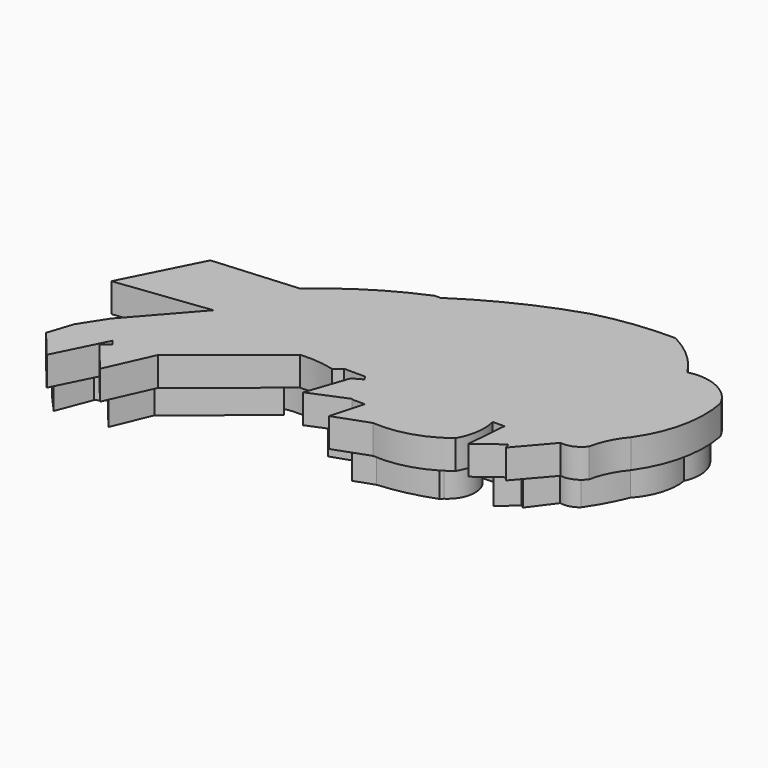
from build123d import *

# Parameters (mm, degrees)
F1_DEPTH = 3.81
F3_DEPTH = 3.81
F5_DEPTH = 3.81


with BuildPart() as f1:
    # F0 (on Top) → F1 (new body)
    with BuildSketch(Plane.XY):
        with BuildLine():
            Line((16.97628, -59.058286), (19.705089, -52.957691))
            Line((19.705089, -52.957691), (31.07564, -43.799512))
            ThreePointArc((31.07564, -43.799512), (33.366016, -43.816918), (35.622127, -44.211995))
            Line((35.622127, -44.211995), (36.541499, -43.411601))
            Line((36.541499, -43.411601), (39.299611, -43.411601))
            Line((39.299611, -43.411601), (39.659975, -43.95369))
            Line((39.659975, -43.95369), (38.401872, -44.655453))
            Line((38.401872, -44.655453), (36.541499, -50.125077))
            Line((36.541499, -50.125077), (41.410863, -48.1015))
            Line((41.410863, -48.1015), (41.462618, -48.226037))
            Line((41.462618, -48.226037), (43.122184, -48.226037))
            Line((43.122184, -48.226037), (41.909318, -52.580997))
            Line((41.909318, -52.580997), (46.375882, -50.965246))
            ThreePointArc((46.375882, -50.965246), (50.990398, -50.455311), (55.107314, -48.309434))
            ThreePointArc((55.107314, -48.309434), (55.96993, -45.777959), (55.834934, -43.106958))
            Line((55.834934, -43.106958), (57.362933, -43.106958))
            Line((57.362933, -43.106958), (56.926362, -48.454959))
            Line((56.926362, -48.454959), (60.218841, -45.999244))
            Line((60.218841, -45.999244), (60.455315, -46.708673))
            Line((60.455315, -46.708673), (64.166173, -42.397529))
            ThreePointArc((64.166173, -42.397529), (65.729722, -42.177688), (66.959918, -41.187923))
            ThreePointArc((66.959918, -41.187923), (67.726373, -38.917492), (69.034263, -36.909573))
            ThreePointArc((69.034263, -36.909573), (71.467629, -31.352581), (71.514241, -25.286343))
            ThreePointArc((71.514241, -25.286343), (68.607951, -22.424523), (64.549089, -22.021808))
            ThreePointArc((64.549089, -22.021808), (62.040176, -19.042247), (58.826987, -16.840467))
            ThreePointArc((58.826987, -16.840467), (53.707685, -17.118566), (48.670236, -18.071821))
            ThreePointArc((48.670236, -18.071821), (41.311862, -21.003722), (34.429371, -24.924567))
            Line((34.429371, -24.924567), (33.67985, -24.924567))
            ThreePointArc((33.67985, -24.924567), (27.48786, -28.135727), (21.901691, -32.312687))
            Line((21.901691, -32.312687), (10.765978, -33.169281))
            Line((10.765978, -33.169281), (5.733491, -43.127179))
            Line((5.733491, -43.127179), (17.939948, -41.628141))
            Line((17.939948, -41.628141), (10.873053, -49.658701))
            Line((10.873053, -49.658701), (8.731569, -52.978002))
            Line((8.731569, -52.978002), (7.653544, -56.265509))
            Line((7.653544, -56.265509), (10.765978, -60.044896))
            Line((10.765978, -60.044896), (14.075343, -53.394235))
            Line((14.075343, -53.394235), (14.600779, -54.032265))
            Line((14.600779, -54.032265), (13.549907, -54.897688))
            Line((13.549907, -54.897688), (16.97628, -59.058286))
        make_face()
    extrude(amount=F1_DEPTH)

    # F2 (on face) → F3 (join)
    with BuildSketch(Plane(origin=(0, 0, 0), x_dir=(1, 0, 0), z_dir=(0, 0, -1))):
        with BuildLine():
            Line((62.362719, 21.262165), (64.074621, 23.344252))
            ThreePointArc((64.074621, 23.344252), (67.036734, 23.376149), (69.694884, 24.683576))
            ThreePointArc((69.694884, 24.683576), (70.644255, 27.084462), (70.225157, 29.631993))
            ThreePointArc((70.225157, 29.631993), (69.955998, 33.029778), (68.25655, 35.984311))
            ThreePointArc((68.25655, 35.984311), (67.0841, 38.480973), (65.636583, 40.828876))
            ThreePointArc((65.636583, 40.828876), (64.574593, 41.408491), (63.365407, 41.449059))
            Line((63.365407, 41.449059), (61.005343, 44.63305))
            Line((61.005343, 44.63305), (60.600822, 44.333207))
            Line((60.600822, 44.333207), (58.44954, 46.232879))
            Line((58.44954, 46.232879), (58.757726, 43.257009))
            ThreePointArc((58.757726, 43.257009), (58.639112, 42.628479), (58.195706, 42.167488))
            ThreePointArc((58.195706, 42.167488), (57.966711, 42.031397), (57.721477, 41.927379))
            Line((57.721477, 41.927379), (52.187819, 42.170435))
            ThreePointArc((52.187819, 42.170435), (51.292653, 44.391683), (49.575482, 46.060991))
            ThreePointArc((49.575482, 46.060991), (45.619915, 46.921487), (41.575972, 47.104497))
            Line((41.575972, 47.104497), (38.279213, 48.226037))
            Line((38.279213, 48.226037), (39.414629, 45.300853))
            Line((39.414629, 45.300853), (41.011725, 44.848081))
            Line((41.011725, 44.848081), (41.011725, 43.914717))
            Line((41.011725, 43.914717), (44.32217, 42.485248))
            Line((44.32217, 42.485248), (36.116112, 42.485248))
            Line((36.116112, 42.485248), (35.539597, 43.173272))
            ThreePointArc((35.539597, 43.173272), (26.07418, 43.15441), (17.62064, 47.412593))
            Line((17.62064, 47.412593), (17.572723, 47.698561))
            ThreePointArc((17.572723, 47.698561), (16.460668, 49.519729), (15.021231, 51.094957))
            Line((15.021231, 51.094957), (11.698972, 53.478461))
            Line((11.698972, 53.478461), (9.989955, 57.935085))
            Line((9.989955, 57.935085), (7.880738, 55.572665))
            Line((7.880738, 55.572665), (8.731569, 53.835317))
            Line((8.731569, 53.835317), (8.731569, 52.978002))
            Line((8.731569, 52.978002), (10.910701, 51.094957))
            Line((10.910701, 51.094957), (11.512643, 49.018534))
            ThreePointArc((11.512643, 49.018534), (15.92645, 45.583856), (19.22353, 41.066337))
            Line((19.22353, 41.066337), (19.28794, 40.791228))
            Line((19.28794, 40.791228), (63.54069, 34.192108))
            ThreePointArc((63.54069, 34.192108), (63.531632, 36.09198), (65.42775, 36.21171))
            ThreePointArc((65.42775, 36.21171), (64.621892, 35.279534), (65.201432, 34.192108))
            ThreePointArc((65.201432, 34.192108), (65.613039, 30.902592), (67.980655, 28.582089))
            Line((67.980655, 28.582089), (23.599958, 32.474866))
            Line((23.599958, 32.474866), (34.688797, 26.033277))
            Line((34.688797, 26.033277), (34.380915, 25.503276))
            Line((34.380915, 25.503276), (35.281472, 24.36841))
            ThreePointArc((35.281472, 24.36841), (42.420934, 21.024647), (49.938917, 18.651335))
            Line((49.938917, 18.651335), (50.498281, 18.300841))
            Line((50.498281, 18.300841), (50.135953, 17.722592))
            Line((50.135953, 17.722592), (54.223109, 17.459012))
            Line((54.223109, 17.459012), (54.223109, 17.059586))
            Line((54.223109, 17.059586), (58.015913, 18.300841))
            Line((58.015913, 18.300841), (58.496706, 17.714143))
            Line((58.496706, 17.714143), (60.837945, 19.632767))
            Line((60.837945, 19.632767), (62.362719, 21.262165))
        make_face()
        with BuildLine():
            Line((52.715112, 43.126516), (54.523326, 43.126516))
            ThreePointArc((54.523326, 43.126516), (55.015238, 45.857392), (53.44123, 48.142597))
            Line((53.44123, 48.142597), (53.128958, 48.463933))
            ThreePointArc((53.128958, 48.463933), (49.676827, 49.504967), (46.111207, 50.04099))
            Line((46.111207, 50.04099), (43.576807, 50.933365))
            Line((43.576807, 50.933365), (44.317115, 48.226037))
            ThreePointArc((44.317115, 48.226037), (49.335622, 47.025861), (52.715112, 43.126516))
        make_face()
        with BuildLine():
            Line((18.673604, 52.224013), (16.605122, 57.203803))
            Line((16.605122, 57.203803), (14.549939, 54.708222))
            Line((14.549939, 54.708222), (15.730347, 53.190444))
            Line((15.730347, 53.190444), (15.730347, 52.394051))
            ThreePointArc((15.730347, 52.394051), (17.295057, 51.092122), (18.096911, 49.221195))
            ThreePointArc((18.096911, 49.221195), (23.003501, 45.414789), (29.022919, 43.888368))
            Line((29.022919, 43.888368), (18.673604, 52.224013))
        make_face()
    extrude(amount=F3_DEPTH)

    # F4 (on face) → F5 (join)
    with BuildSketch(Plane(origin=(0, 0, 0), x_dir=(1, 0, 0), z_dir=(0, 0, -1))):
        with BuildLine():
            ThreePointArc((63.215862, 29.757198), (62.30207, 31.580695), (62.900014, 33.530727))
            Line((62.900014, 33.530727), (7.135111, 41.687112))
            Line((7.135111, 41.687112), (11.278112, 34.312829))
            Line((11.278112, 34.312829), (63.215862, 29.757198))
        make_face()
    extrude(amount=F5_DEPTH)


solid = f1.part
